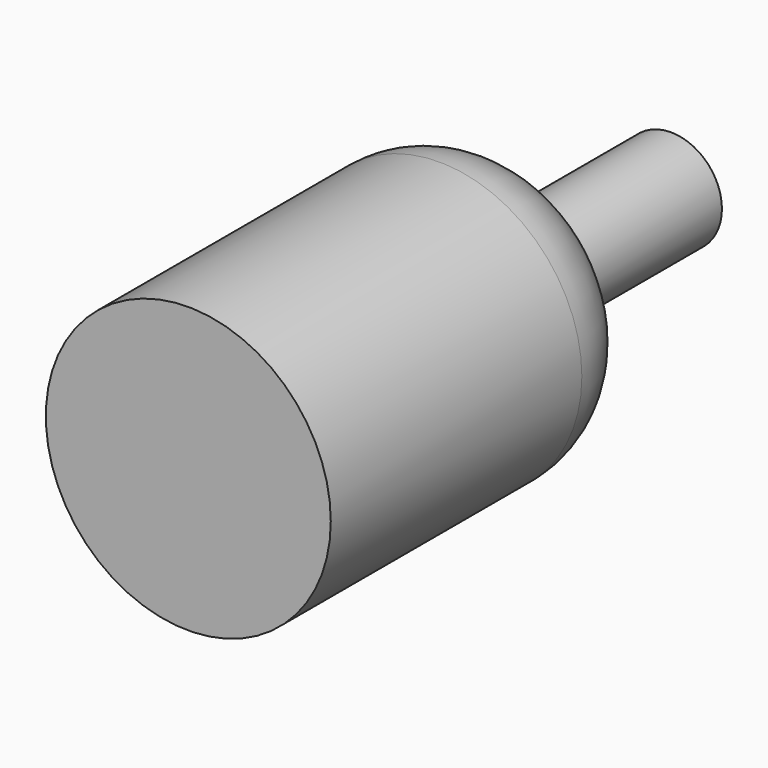
from build123d import *

# Parameters (mm, degrees)
F0_R      = 30.528215
F1_DEPTH  = 86.868
F2_R      = 19.622728
F1_FACE_R = 10.905488
F3_DEPTH  = 42.418


with BuildPart() as f1:
    # F0 (on Front) → F1 (new body)
    with BuildSketch(Plane.XZ):
        Circle(F0_R)
    extrude(amount=-F1_DEPTH)

    # F2
    f2_edges = [f1.edges().sort_by_distance(p)[0] for p in [
        (-30.528215, 86.868, 0),
    ]]
    fillet(f2_edges, radius=F2_R)

    # F1_face (on face) → F3 (join)
    with BuildSketch(Plane(origin=(0, 86.868, 0), x_dir=(1, 0, 0), z_dir=(0, 1, 0))):
        Circle(F1_FACE_R)
    extrude(amount=F3_DEPTH)


solid = f1.part
